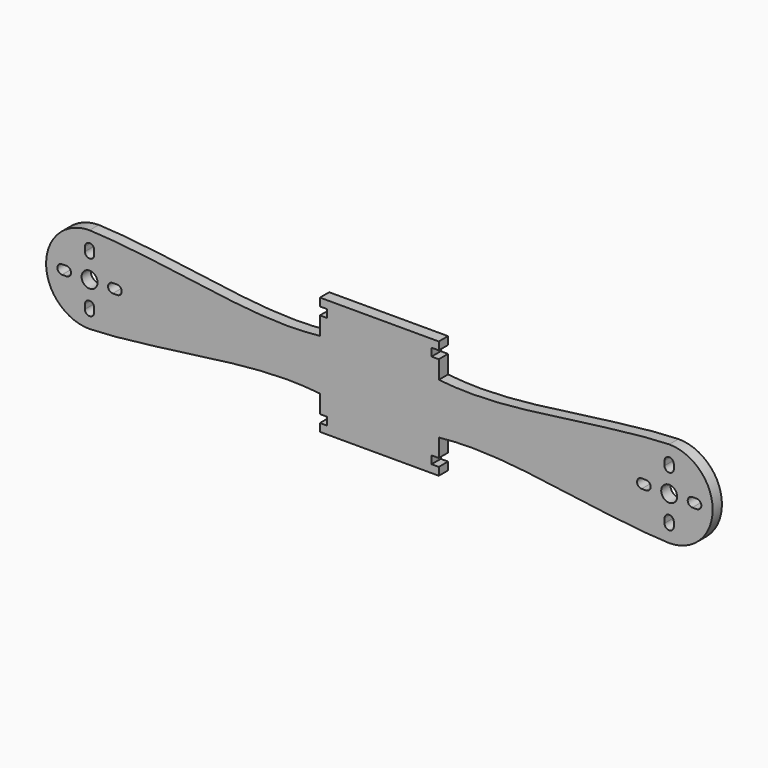
from build123d import *

# Parameters (mm, degrees)
F0_R     = 2.75
F1_DEPTH = 4


with BuildPart() as f1:
    # F0 (on Front) → F1 (new body)
    with BuildSketch(Plane.XZ):
        with BuildLine():
            add(Edge.make_bspline(
                [(-100, 95), (-81.2941622631, 94.4236036805), (-47.5910411734, 87.3203708431), (-25.3869639524, 88.2401502703), (-20.5, 88.75608063)],
                knots=[0, 0, 0, 0, 0.5689678783, 0.7432926029, 0.7432926029, 0.7432926029, 0.7432926029], degree=3))
            ThreePointArc((-100, 95), (-115, 80), (-100, 65))
            add(Edge.make_bspline(
                [(-100, 65), (-81.2941622631, 65.5763963195), (-47.5910411734, 72.6796291569), (-25.3869639524, 71.7598497297), (-20.5, 71.24391937)],
                knots=[0, 0, 0, 0, 0.5689678783, 0.7432926029, 0.7432926029, 0.7432926029, 0.7432926029], degree=3))
            add(Edge.make_bspline(
                [(-20.5, 71.24391937), (-19.6576755147, 71.1549928343), (-18.8248746074, 71.0571473907), (-18, 70.9511054936)],
                knots=[0.7432926029, 0.7432926029, 0.7432926029, 0.7432926029, 0.7733394757, 0.7733394757, 0.7733394757, 0.7733394757], degree=3))
            add(Edge.make_bspline(
                [(-18, 70.9511054936), (-11.7775051442, 70.1511715966), (-6.006059288, 68.884815508), (0, 67.4621646617)],
                knots=[0.7733394757, 0.7733394757, 0.7733394757, 0.7733394757, 1, 1, 1, 1], degree=3))
            add(Edge.make_bspline(
                [(18, 70.9511054936), (11.7775051442, 70.1511715966), (6.006059288, 68.884815508), (0, 67.4621646617)],
                knots=[0.7733394757, 0.7733394757, 0.7733394757, 0.7733394757, 1, 1, 1, 1], degree=3))
            add(Edge.make_bspline(
                [(20.5, 71.24391937), (19.6576755147, 71.1549928343), (18.8248746074, 71.0571473907), (18, 70.9511054936)],
                knots=[0.7432926029, 0.7432926029, 0.7432926029, 0.7432926029, 0.7733394757, 0.7733394757, 0.7733394757, 0.7733394757], degree=3))
            add(Edge.make_bspline(
                [(100, 65), (81.2941622631, 65.5763963195), (47.5910411734, 72.6796291569), (25.3869639524, 71.7598497297), (20.5, 71.24391937)],
                knots=[0, 0, 0, 0, 0.5689678783, 0.7432926029, 0.7432926029, 0.7432926029, 0.7432926029], degree=3))
            ThreePointArc((100, 65), (115, 80), (100, 95))
            add(Edge.make_bspline(
                [(100, 95), (81.2941622631, 94.4236036805), (47.5910411734, 87.3203708431), (25.3869639524, 88.2401502703), (20.5, 88.75608063)],
                knots=[0, 0, 0, 0, 0.5689678783, 0.7432926029, 0.7432926029, 0.7432926029, 0.7432926029], degree=3))
            add(Edge.make_bspline(
                [(20.5, 88.75608063), (19.6576755147, 88.8450071657), (18.8248746074, 88.9428526093), (18, 89.0488945064)],
                knots=[0.7432926029, 0.7432926029, 0.7432926029, 0.7432926029, 0.7733394757, 0.7733394757, 0.7733394757, 0.7733394757], degree=3))
            add(Edge.make_bspline(
                [(18, 89.0488945064), (11.7775051442, 89.8488284034), (6.006059288, 91.115184492), (0, 92.5378353383)],
                knots=[0.7733394757, 0.7733394757, 0.7733394757, 0.7733394757, 1, 1, 1, 1], degree=3))
            add(Edge.make_bspline(
                [(-18, 89.0488945064), (-11.7775051442, 89.8488284034), (-6.006059288, 91.115184492), (0, 92.5378353383)],
                knots=[0.7733394757, 0.7733394757, 0.7733394757, 0.7733394757, 1, 1, 1, 1], degree=3))
            add(Edge.make_bspline(
                [(-20.5, 88.75608063), (-19.6576755147, 88.8450071657), (-18.8248746074, 88.9428526093), (-18, 89.0488945064)],
                knots=[0.7432926029, 0.7432926029, 0.7432926029, 0.7432926029, 0.7733394757, 0.7733394757, 0.7733394757, 0.7733394757], degree=3))
        make_face()
        with BuildLine():
            Line((-98.4, 72), (-98.4, 70.5))
            ThreePointArc((-98.4, 70.5), (-100, 68.9), (-101.6, 70.5))
            Line((-101.6, 70.5), (-101.6, 72))
            ThreePointArc((-101.6, 72), (-100, 73.6), (-98.4, 72))
        make_face(mode=Mode.SUBTRACT)
        with BuildLine():
            ThreePointArc((-109.5, 78.4), (-111.1, 80), (-109.5, 81.6))
            Line((-109.5, 81.6), (-108, 81.6))
            ThreePointArc((-108, 81.6), (-106.4, 80), (-108, 78.4))
            Line((-108, 78.4), (-109.5, 78.4))
        make_face(mode=Mode.SUBTRACT)
        with Locations((-100, 80)):
            Circle(F0_R, mode=Mode.SUBTRACT)
        with BuildLine():
            Line((-90.5, 78.4), (-92, 78.4))
            ThreePointArc((-92, 78.4), (-93.6, 80), (-92, 81.6))
            Line((-92, 81.6), (-90.5, 81.6))
            ThreePointArc((-90.5, 81.6), (-88.9, 80), (-90.5, 78.4))
        make_face(mode=Mode.SUBTRACT)
        with BuildLine():
            Line((101.6, 72), (101.6, 70.5))
            ThreePointArc((101.6, 70.5), (100, 68.9), (98.4, 70.5))
            Line((98.4, 70.5), (98.4, 72))
            ThreePointArc((98.4, 72), (100, 73.6), (101.6, 72))
        make_face(mode=Mode.SUBTRACT)
        with BuildLine():
            ThreePointArc((90.5, 78.4), (88.9, 80), (90.5, 81.6))
            Line((90.5, 81.6), (92, 81.6))
            ThreePointArc((92, 81.6), (93.6, 80), (92, 78.4))
            Line((92, 78.4), (90.5, 78.4))
        make_face(mode=Mode.SUBTRACT)
        with Locations((100, 80)):
            Circle(F0_R, mode=Mode.SUBTRACT)
        with BuildLine():
            Line((109.5, 78.4), (108, 78.4))
            ThreePointArc((108, 78.4), (106.4, 80), (108, 81.6))
            Line((108, 81.6), (109.5, 81.6))
            ThreePointArc((109.5, 81.6), (111.1, 80), (109.5, 78.4))
        make_face(mode=Mode.SUBTRACT)
        with BuildLine():
            ThreePointArc((-101.6, 89.5), (-100, 91.1), (-98.4, 89.5))
            Line((-98.4, 89.5), (-98.4, 88))
            ThreePointArc((-98.4, 88), (-100, 86.4), (-101.6, 88))
            Line((-101.6, 88), (-101.6, 89.5))
        make_face(mode=Mode.SUBTRACT)
        with BuildLine():
            Line((98.4, 88), (98.4, 89.5))
            ThreePointArc((98.4, 89.5), (100, 91.1), (101.6, 89.5))
            Line((101.6, 89.5), (101.6, 88))
            ThreePointArc((101.6, 88), (100, 86.4), (98.4, 88))
        make_face(mode=Mode.SUBTRACT)
        with BuildLine():
            Line((-20.5, 95), (-20.5, 88.75608063))
            add(Edge.make_bspline(
                [(-20.5, 88.75608063), (-19.6576755147, 88.8450071657), (-18.8248746074, 88.9428526093), (-18, 89.0488945064)],
                knots=[0.7432926029, 0.7432926029, 0.7432926029, 0.7432926029, 0.7733394757, 0.7733394757, 0.7733394757, 0.7733394757], degree=3))
            Line((-18, 89.0488945064), (-18, 95))
            Line((-18, 95), (-20.5, 95))
        make_face()
        with BuildLine():
            add(Edge.make_bspline(
                [(-20.5, 71.24391937), (-19.6576755147, 71.1549928343), (-18.8248746074, 71.0571473907), (-18, 70.9511054936)],
                knots=[0.7432926029, 0.7432926029, 0.7432926029, 0.7432926029, 0.7733394757, 0.7733394757, 0.7733394757, 0.7733394757], degree=3))
            Line((-20.5, 71.24391937), (-20.5, 65))
            Line((-20.5, 65), (-18, 65))
            Line((-18, 65), (-18, 70.9511054936))
        make_face()
        with BuildLine():
            Line((-18, 95), (-18, 89.0488945064))
            add(Edge.make_bspline(
                [(-18, 89.0488945064), (-11.7775051442, 89.8488284034), (-6.006059288, 91.115184492), (0, 92.5378353383)],
                knots=[0.7733394757, 0.7733394757, 0.7733394757, 0.7733394757, 1, 1, 1, 1], degree=3))
            add(Edge.make_bspline(
                [(18, 89.0488945064), (11.7775051442, 89.8488284034), (6.006059288, 91.115184492), (0, 92.5378353383)],
                knots=[0.7733394757, 0.7733394757, 0.7733394757, 0.7733394757, 1, 1, 1, 1], degree=3))
            Line((18, 89.0488945064), (18, 95))
            Line((18, 95), (18, 97.7))
            Line((18, 97.7), (20.5, 97.7))
            Line((20.5, 97.7), (20.5, 100.4))
            Line((20.5, 100.4), (-20.5, 100.4))
            Line((-20.5, 100.4), (-20.5, 97.7))
            Line((-20.5, 97.7), (-18, 97.7))
            Line((-18, 97.7), (-18, 95))
        make_face()
        with BuildLine():
            add(Edge.make_bspline(
                [(-18, 70.9511054936), (-11.7775051442, 70.1511715966), (-6.006059288, 68.884815508), (0, 67.4621646617)],
                knots=[0.7733394757, 0.7733394757, 0.7733394757, 0.7733394757, 1, 1, 1, 1], degree=3))
            Line((-18, 70.9511054936), (-18, 65))
            Line((-18, 65), (-18, 62.3))
            Line((-18, 62.3), (-20.5, 62.3))
            Line((-20.5, 62.3), (-20.5, 59.6))
            Line((-20.5, 59.6), (20.5, 59.6))
            Line((20.5, 59.6), (20.5, 62.3))
            Line((20.5, 62.3), (18, 62.3))
            Line((18, 62.3), (18, 65))
            Line((18, 65), (18, 70.9511054936))
            add(Edge.make_bspline(
                [(18, 70.9511054936), (11.7775051442, 70.1511715966), (6.006059288, 68.884815508), (0, 67.4621646617)],
                knots=[0.7733394757, 0.7733394757, 0.7733394757, 0.7733394757, 1, 1, 1, 1], degree=3))
        make_face()
        with BuildLine():
            Line((18, 95), (18, 89.0488945064))
            add(Edge.make_bspline(
                [(20.5, 88.75608063), (19.6576755147, 88.8450071657), (18.8248746074, 88.9428526093), (18, 89.0488945064)],
                knots=[0.7432926029, 0.7432926029, 0.7432926029, 0.7432926029, 0.7733394757, 0.7733394757, 0.7733394757, 0.7733394757], degree=3))
            Line((20.5, 88.75608063), (20.5, 95))
            Line((20.5, 95), (18, 95))
        make_face()
        with BuildLine():
            add(Edge.make_bspline(
                [(20.5, 71.24391937), (19.6576755147, 71.1549928343), (18.8248746074, 71.0571473907), (18, 70.9511054936)],
                knots=[0.7432926029, 0.7432926029, 0.7432926029, 0.7432926029, 0.7733394757, 0.7733394757, 0.7733394757, 0.7733394757], degree=3))
            Line((18, 70.9511054936), (18, 65))
            Line((18, 65), (20.5, 65))
            Line((20.5, 65), (20.5, 71.24391937))
        make_face()
    extrude(amount=F1_DEPTH)


solid = f1.part
